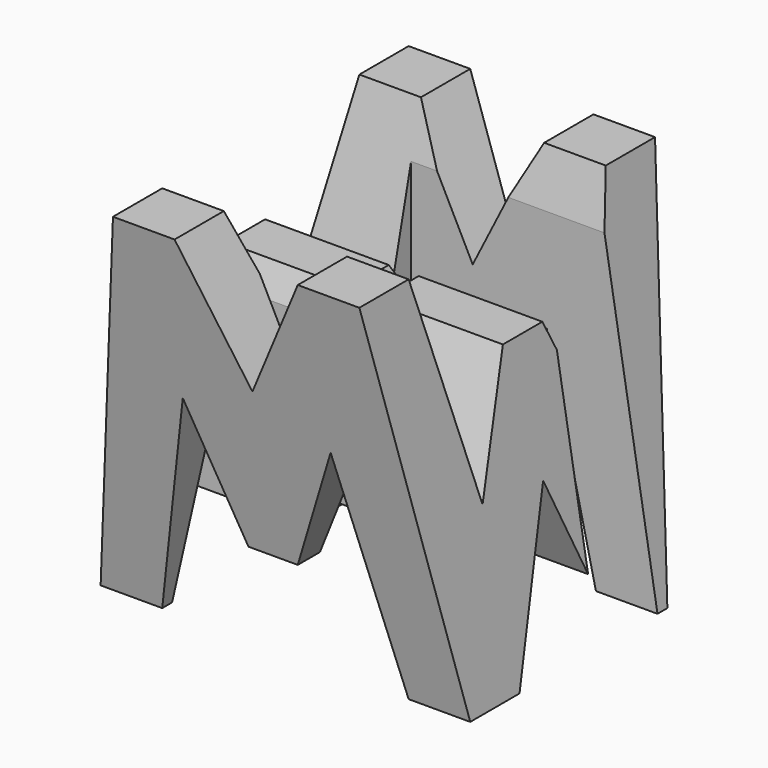
from build123d import *

# Parameters (mm, degrees)
F0_W     = 38.1
F0_H     = 38.1
F1_DEPTH = 38.1
F5_DEPTH = 38.1
F7_DEPTH = 38.1
F8_W     = 25.4
F8_H     = 7.62
F9_DEPTH = 38.1


with BuildPart() as f1:
    # F0 (on Front) → F1 (new body)
    with BuildSketch(Plane.XZ):
        with Locations((19.05, 19.05)):
            Rectangle(F0_W, F0_H)
    extrude(amount=F1_DEPTH)

    # F4 (on face) → F5 (cut)
    with BuildSketch(Plane.YZ.offset(38.1)):
        Polygon((-6.35, 38.1), (-31.75, 38.1), (-26.67, 16.755341), (-21.59, 28.575), (-16.51, 28.575), (-11.43, 16.885228), align=None)
        Polygon((-31.75, 0), (-38.1, 38.1), (-38.1, 0), align=None)
        Polygon((-19.05, 15.875), (-25.4, 0), (-12.7, 0), align=None)
        Polygon((0, 0), (0, 38.1), (-6.35, 0), align=None)
    extrude(amount=-F5_DEPTH, mode=Mode.SUBTRACT)

    # F6 (on offset) → F7 (cut)
    with BuildSketch(Plane.XZ.offset(38.1)):
        Polygon((0, 38.1), (0, 0), (6.35, 38.1), align=None)
        Polygon((25.4, 38.1), (12.7, 38.1), (19.05, 25.511248), align=None)
        Polygon((11.43, 22.225), (6.35, 0), (31.75, 0), (26.67, 22.225), (21.59, 9.525), (16.51, 9.525), align=None)
        Polygon((31.75, 38.1), (38.1, 0), (38.1, 38.1), align=None)
    extrude(amount=-F7_DEPTH, mode=Mode.SUBTRACT)

    # F8 (on offset) → F9 (cut)
    with BuildSketch(Plane.XY.offset(38.1)):
        with Locations((25.4, -11.43)):
            Rectangle(F8_W, F8_H)
        with Locations((12.7, -26.67)):
            Rectangle(F8_W, F8_H)
    extrude(amount=-F9_DEPTH, mode=Mode.SUBTRACT)


solid = f1.part
